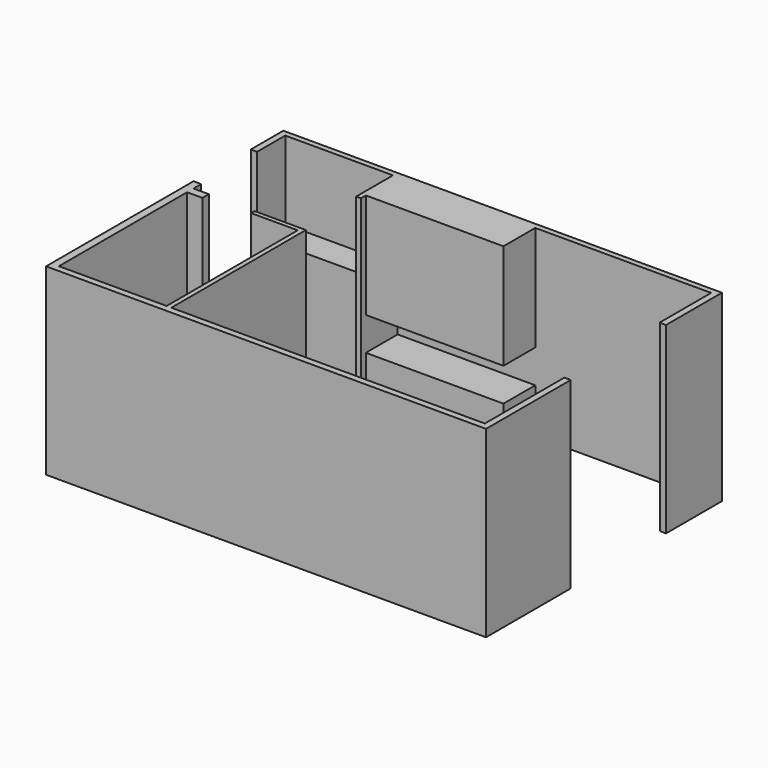
from build123d import *

# Parameters (mm, degrees)
F0_W     = 200
F0_H     = 105.2655696869
F1_DEPTH = 2400
F0_W_2   = 61.4657178521
F0_H_2   = 600
F2_W     = 1800
F2_H     = 588.1278291095
F2_H_2   = 1376.2938022614
F3_DEPTH = 520
F4_W     = 1408.5342821479
F4_H     = 1377.9084682465
F5_DEPTH = 370


with BuildPart() as f1:
    # F0 (on Top) → F1 (new body)
    with BuildSketch(Plane.XY):
        Polygon((-61.4657178521, 0), (0, 0), (0, 2200), (-670, 2200), (-670, 2142.8458690643), (-61.4657178521, 2142.8458690643), align=None)
        Polygon((4100, 0), (0, 0), (-61.4657178521, 0), (-1470, 0), (-1470, 2094.7344303131), (-1470, 2200), (-1470, 2324.1364955902), (-1570.3476667404, 2328.4621238708), (-1570.3476667404, -84.5517069101), (4183.7620735168, -84.5517069101), (4183.7620735168, 1300), (4100, 1300), align=None)
        with Locations((-1370, 2147.3672151566)):
            Rectangle(F0_W, F0_H)
    extrude(amount=F1_DEPTH)


with BuildPart() as f1b:
    # F0 (on Top) → F1, piece 2 (new body)
    with BuildSketch(Plane.XY):
        Polygon((4100, 3700), (4100, 2860), (4183.7620735168, 2855.3731441498), (4183.7620735168, 3771.4800834656), (-1552.3847341537, 3771.4800834656), (-1552.3847341537, 3240.4828071594), (-1470, 3240.4828071594), (-1470, 3700), (-61.4657178521, 3700), (0, 3700), (1800, 3700), align=None)
        with Locations((-30.7328589261, 3400)):
            Rectangle(F0_W_2, F0_H_2)
    extrude(amount=F1_DEPTH)

    # F2 (on face) → F3 (join)
    with BuildSketch(Plane.XZ.offset(-3700)):
        with Locations((900, 294.0639145548)):
            Rectangle(F2_W, F2_H)
        with Locations((900, 1711.8530988693)):
            Rectangle(F2_W, F2_H_2)
    extrude(amount=F3_DEPTH)

    # F4 (on face) → F5 (join)
    with BuildSketch(Plane.XZ.offset(-3700)):
        with Locations((-765.7328589261, 688.9542341232)):
            Rectangle(F4_W, F4_H)
    extrude(amount=F5_DEPTH)


solid = Compound([f1.part, f1b.part])
